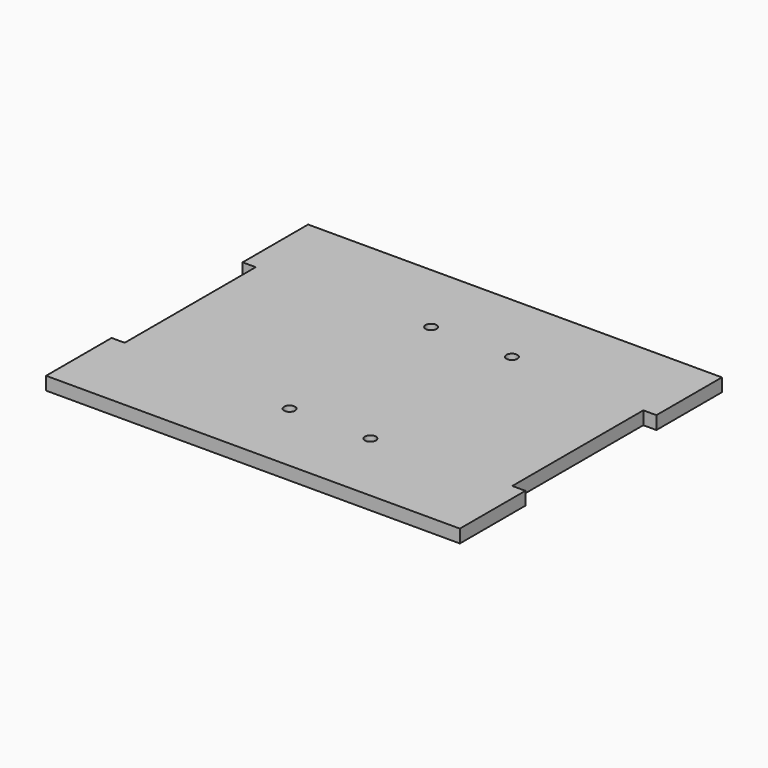
from build123d import *

# Parameters (mm, degrees)
F1_DEPTH = 12
F3_D     = 10


with BuildPart() as f1:
    # F0 (on Top) → F1 (new body)
    with BuildSketch(Plane.XY):
        Polygon((161.6350401939, 149.5562807401), (-217.3649598061, 149.5562807401), (-217.3649598061, 74.5562807401), (-205.3649598061, 74.5562807401), (-205.3649598061, -75.4437192599), (-217.3649598061, -75.4437192599), (-217.3649598061, -150.4437192599), (161.6350401939, -150.4437192599), (161.6350401939, -75.4437192599), (149.6350401939, -75.4437192599), (149.6350401939, 74.5562807401), (161.6350401939, 74.5562807401), align=None)
    extrude(amount=F1_DEPTH)

    # F3 (through all)
    with Locations(Plane.XY.offset(12)):
        with Locations((-49.5149598061, 80.5562807401), (24.4850401939, 80.5562807401), (24.4850401939, -81.4437192599), (-49.5149598061, -81.4437192599)):
            Hole(F3_D / 2)


solid = f1.part
